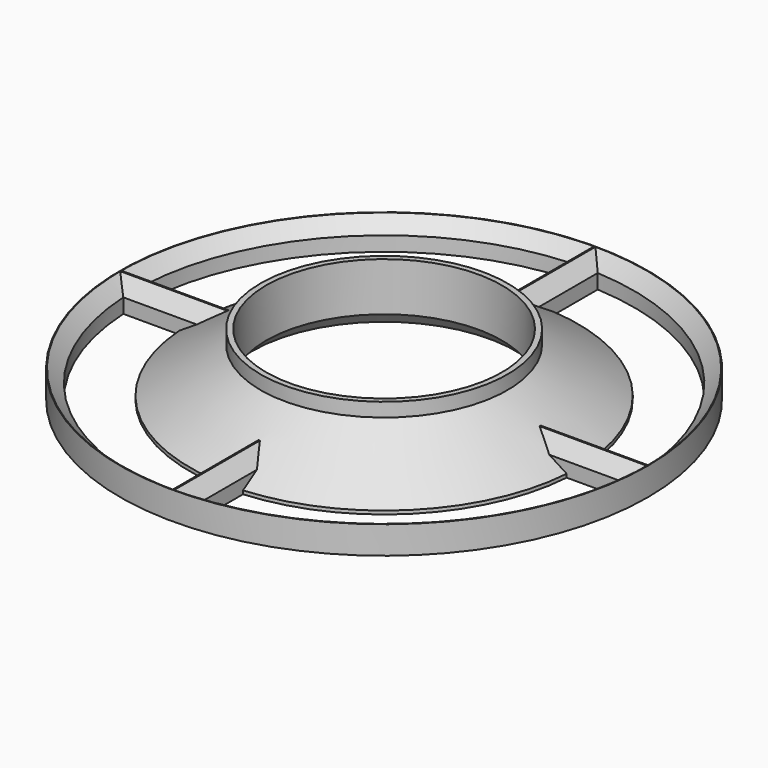
from build123d import *

# Parameters (mm, degrees)
SKETCH001_R     = 38.06
PAD_DEPTH       = 4
CHAMFER_SIZE    = 1.9
CHAMFER001_SIZE = 1.9
CHAMFER002_SIZE = 2


with BuildPart() as part:
    # Sketch → Revolution (revolve)
    with BuildSketch(Plane.XZ):
        Polygon((-17, 0), (-17, 9), (-17.8, 9), (-17.8, 7), (-28, 0.5), (-28, 0), align=None)
    revolve(axis=Axis((0, 0, 0), (0, 0, 1)))

    # Sketch001 → Pad (new body)
    with BuildSketch(Plane.XY):
        Circle(SKETCH001_R)
        with BuildLine():
            ThreePointArc((-2, 36.004494), (-25.498271, 25.498271), (-36.004494, 2))
            Line((-36.004494, 2), (-19.1, 2))
            Line((-19.1, 2), (-19.1, -2))
            Line((-19.1, -2), (-36.004494, -2))
            ThreePointArc((-36.004494, -2), (-25.498271, -25.498271), (-2, -36.004494))
            Line((-2, -36.004494), (-2, -19.1))
            Line((-2, -19.1), (2, -19.1))
            Line((2, -19.1), (2, -36.004494))
            ThreePointArc((2, -36.004494), (25.498271, -25.498271), (36.004494, -2))
            Line((19.1, -2), (36.004494, -2))
            Line((19.1, 2), (19.1, -2))
            Line((36.004494, 2), (19.1, 2))
            ThreePointArc((36.004494, 2), (25.498271, 25.498271), (2, 36.004494))
            Line((2, 36.004494), (2, 19.1))
            Line((2, 19.1), (-2, 19.1))
            Line((-2, 19.1), (-2, 36.004494))
        make_face(mode=Mode.SUBTRACT)
    extrude(amount=PAD_DEPTH)

    # Chamfer
    chamfer_edges = [part.edges().sort_by_distance(p)[0] for p in [
        (-25.498271, -25.498271, 4),
        (-25.498271, 25.498271, 4),
        (25.498271, 25.498271, 4),
        (25.498271, -25.498271, 4),
    ]]
    chamfer(chamfer_edges, length=CHAMFER_SIZE)

    # Chamfer001
    chamfer001_edges = [part.edges().sort_by_distance(p)[0] for p in [
        (-36.955885, -2, 4),
        (-29.211576, -2, 4),
        (-36.955885, 2, 4),
        (-29.211576, 2, 4),
        (-2, -29.211576, 4),
        (-2, -36.955885, 4),
        (2, -36.955885, 4),
        (2, -29.211576, 4),
        (29.211576, -2, 4),
        (36.955885, -2, 4),
        (36.955885, 2, 4),
        (29.211576, 2, 4),
        (2, 29.211576, 4),
        (2, 36.955885, 4),
        (-2, 36.955885, 4),
        (-2, 29.211576, 4),
    ]]
    chamfer(chamfer001_edges, length=CHAMFER001_SIZE)

    # Chamfer002
    chamfer002_edges = [part.edges().sort_by_distance(p)[0] for p in [
        (17, 0, 0),
    ]]
    chamfer(chamfer002_edges, length=CHAMFER002_SIZE)


solid = part.part
